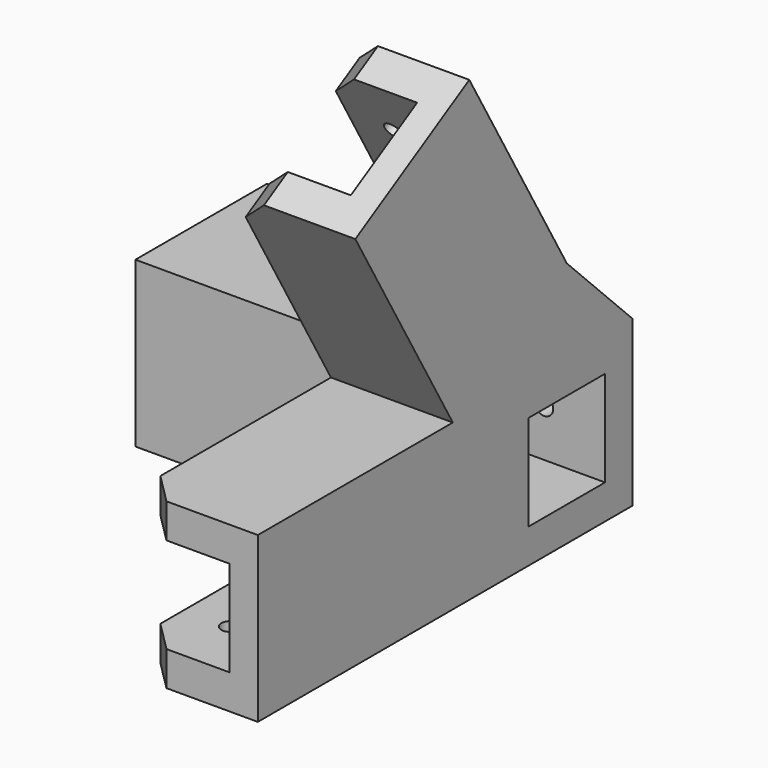
from build123d import *

# Parameters (mm, degrees)
F0_W      = 15
F0_H      = 15
F1_DEPTH  = 20
F2_W      = 40
F2_H      = 15
F3_DEPTH  = 15
F4_W      = 27
F4_H      = 27
F4_W_2    = 15
F4_H_2    = 15
F5_DEPTH  = 60
F6_W      = 15.7
F6_H      = 15.7
F7_DEPTH  = 60.001
F8_W      = 15.7
F8_H      = 15.7
F9_DEPTH  = 40.001
F10_W     = 15.7
F10_H     = 15.7
F11_DEPTH = 61.6923429511
F12_R     = 1.5
F13_DEPTH = 5.65
F14_R     = 1.5
F15_DEPTH = 34.6628510268
F16_R     = 1.5
F17_DEPTH = 5.651
F18_SIZE  = 5
F19_SIZE  = 2
F21_DEPTH = 20


with BuildPart() as f1:
    # F0 (on Right) → F1 (new body)
    with BuildSketch(Plane.YZ):
        Polygon((-63.3826859022, -13.5), (13.5, -13.5), (13.5, 3.6173140978), (-20, 61.6410161514), (-43.3826859022, 48.1410161514), (-23.3826859022, 13.5), (-63.3826859022, 13.5), align=None)
        Rectangle(F0_W, F0_H, mode=Mode.SUBTRACT)
    extrude(amount=-F1_DEPTH)

    # F2 (on face) → F3 (cut)
    with BuildSketch(Plane(origin=(-20, 0, 0), x_dir=(0, -1, 0), z_dir=(-1, 0, 0))):
        Polygon((5.1961524227, 24), (18.1865334795, 16.5), (38.1865334795, 51.1410161514), (25.1961524227, 58.6410161514), align=None)
        with Locations((43.3826859022, 0)):
            Rectangle(F2_W, F2_H)
    extrude(amount=-F3_DEPTH, mode=Mode.SUBTRACT)

    # F4 (on face) → F5 (join)
    with BuildSketch(Plane.YZ):
        Rectangle(F4_W, F4_H)
        Rectangle(F4_W_2, F4_H_2, mode=Mode.SUBTRACT)
    extrude(amount=-F5_DEPTH)

    # F6 (on face) → F7 (cut, through all)
    with BuildSketch(Plane(origin=(-60, 0, 0), x_dir=(0, -1, 0), z_dir=(-1, 0, 0))):
        Rectangle(F6_W, F6_H)
    extrude(amount=-F7_DEPTH, mode=Mode.SUBTRACT)

    # F8 (on face) → F9 (cut, through all)
    with BuildSketch(Plane.XZ.offset(23.3826859022)):
        with Locations((-12.5, 0)):
            Rectangle(F8_W, F8_H)
    extrude(amount=F9_DEPTH, mode=Mode.SUBTRACT)

    # F10 (on face) → F11 (cut, through all)
    with BuildSketch(Plane(origin=(0, -11.6913429511, 20.25), x_dir=(1, 0, 0), z_dir=(0, -0.5, 0.8660254038))):
        with Locations((-12.5, 0)):
            Rectangle(F10_W, F10_H)
    extrude(amount=F11_DEPTH, mode=Mode.SUBTRACT)

    # F12 (on face) → F13 (cut, through all)
    with BuildSketch(Plane(origin=(0, 13.5, 0), x_dir=(-1, 0, 0), z_dir=(0, 1, 0))):
        with Locations((10, 0)):
            Circle(F12_R)
        with Locations((50, 0)):
            Circle(F12_R)
    extrude(amount=-F13_DEPTH, mode=Mode.SUBTRACT)

    # F14 (on face) → F15 (cut, through all)
    with BuildSketch(Plane(origin=(0, 6.7982994197, 3.925), x_dir=(1, 0, 0), z_dir=(0, -0.8660254038, -0.5))):
        with Locations((-12.5, 33.3826859022)):
            Circle(F14_R)
        with Locations((-12.5, 53.3826859022)):
            Circle(F14_R)
    extrude(amount=-F15_DEPTH, mode=Mode.SUBTRACT)

    # F16 (on face) → F17 (cut, through all)
    with BuildSketch(Plane.XY.offset(-7.85)):
        with Locations((-12.5, -53.3826859022)):
            Circle(F16_R)
        with Locations((-12.5, -33.3826859022)):
            Circle(F16_R)
    extrude(amount=-F17_DEPTH, mode=Mode.SUBTRACT)

    # F18
    f18_edges = [f1.edges().sort_by_distance(p)[0] for p in [
        (-20, -40.936164, 49.553516),
        (-20, -22.446522, 60.228516),
        (-20, -63.382686, 10.675),
        (-20, -63.382686, -10.675),
    ]]
    chamfer(f18_edges, length=F18_SIZE)

    # F19
    f19_edges = [f1.edges().sort_by_distance(p)[0] for p in [
        (-14, -15, 52.980762),
        (-14, -5, 35.660254),
        (-8.5, 13.5, 0),
        (-48.5, 13.5, 0),
        (-14, -33.382686, -13.5),
        (-14, -53.382686, -13.5),
    ]]
    chamfer(f19_edges, length=F19_SIZE)

    # F20 (on face) → F21 (join, through all)
    with BuildSketch(Plane.YZ):
        Polygon((7.7942286341, 13.5), (13.5, 13.5), (0, 27), align=None)
    extrude(amount=-F21_DEPTH)


solid = f1.part
